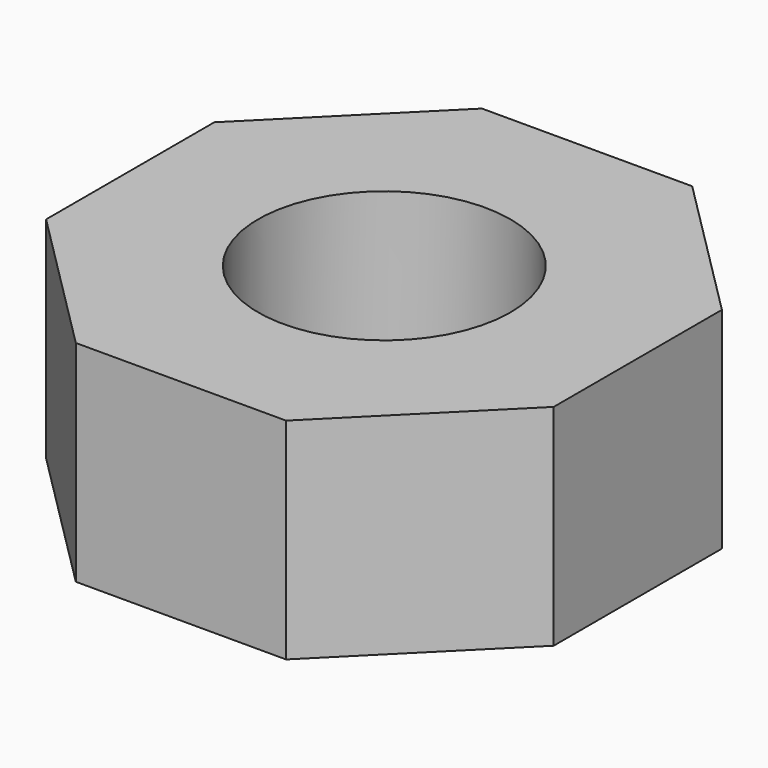
from build123d import *

# Parameters (mm, degrees)
F0_R     = 15.24
F1_DEPTH = 25.4


with BuildPart() as f1:
    # F0 (on Top) → F1 (new body)
    with BuildSketch(Plane.XY):
        Polygon((12.519488, 30.841024), (-12.880512, 30.841024), (-30.841024, 12.880512), (-30.841024, -12.519488), (-12.880512, -30.48), (12.519488, -30.48), (30.48, -12.519488), (30.48, 12.880512), align=None)
        Circle(F0_R, mode=Mode.SUBTRACT)
    extrude(amount=F1_DEPTH)


solid = f1.part
